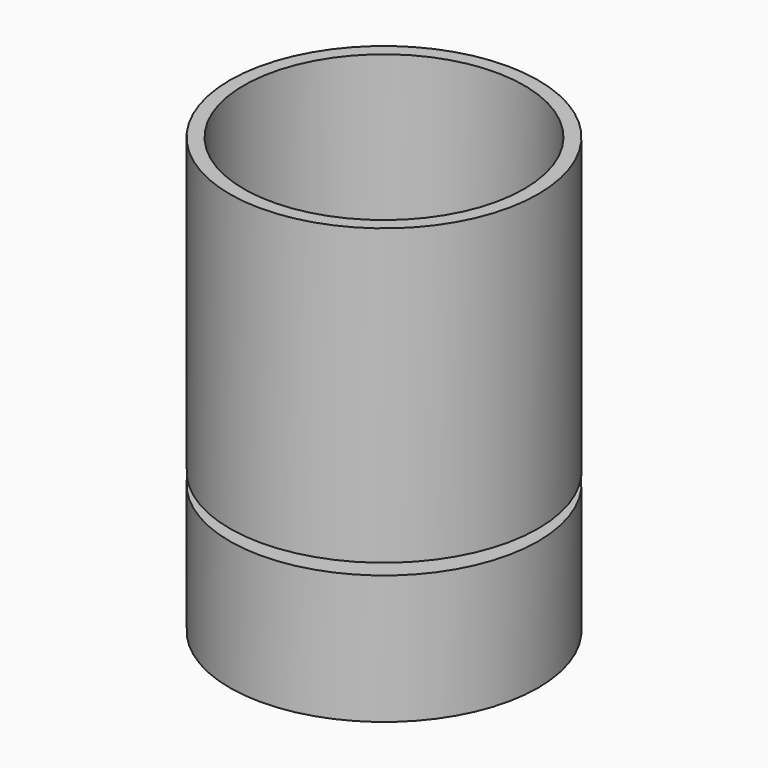
from build123d import *

# Parameters (mm, degrees)
F0_R     = 5.5
F0_R_2   = 5
F1_DEPTH = 5.5
F0_R_3   = 3.55
F0_R_4   = 2.75
F0_R_5   = 2.25
F2_DEPTH = 5
F3_DEPTH = 10
F4_DEPTH = 5
F5_START = -5.4
F5_DEPTH = 4.6


with BuildPart() as f1:
    # F0 (on Top) → F1 (new body)
    with BuildSketch(Plane.XY):
        Circle(F0_R)
        Circle(F0_R_2, mode=Mode.SUBTRACT)
    extrude(amount=F1_DEPTH)



with BuildPart() as f2:
    # F0 (on Top) → F2 (new body)
    with BuildSketch(Plane.XY):
        Circle(F0_R_2)
        Circle(F0_R_3, mode=Mode.SUBTRACT)
        Circle(F0_R_3)
        Circle(F0_R_4, mode=Mode.SUBTRACT)
        Circle(F0_R_4)
        Circle(F0_R_5, mode=Mode.SUBTRACT)
    extrude(amount=-F2_DEPTH)

    # F0 (on Top) → F3 (join)
    with BuildSketch(Plane.XY):
        Circle(F0_R_4)
        Circle(F0_R_5, mode=Mode.SUBTRACT)
    extrude(amount=-F3_DEPTH)


with BuildPart() as f1_1:
    add(f1.part)

    add(f2.part)  # F4 merges F2
    # F0 (on Top) → F4 (join)
    with BuildSketch(Plane.XY):
        Circle(F0_R)
        Circle(F0_R_2, mode=Mode.SUBTRACT)
    extrude(amount=-F4_DEPTH)


with BuildPart() as f5:
    # F0 (on Top) → F5 (new body)
    with BuildSketch(Plane.XY.offset(F5_START)):
        Circle(F0_R)
        Circle(F0_R_2, mode=Mode.SUBTRACT)
        Circle(F0_R_2)
        Circle(F0_R_3, mode=Mode.SUBTRACT)
    extrude(amount=-F5_DEPTH)


solid = Compound([f1_1.part, f5.part])
